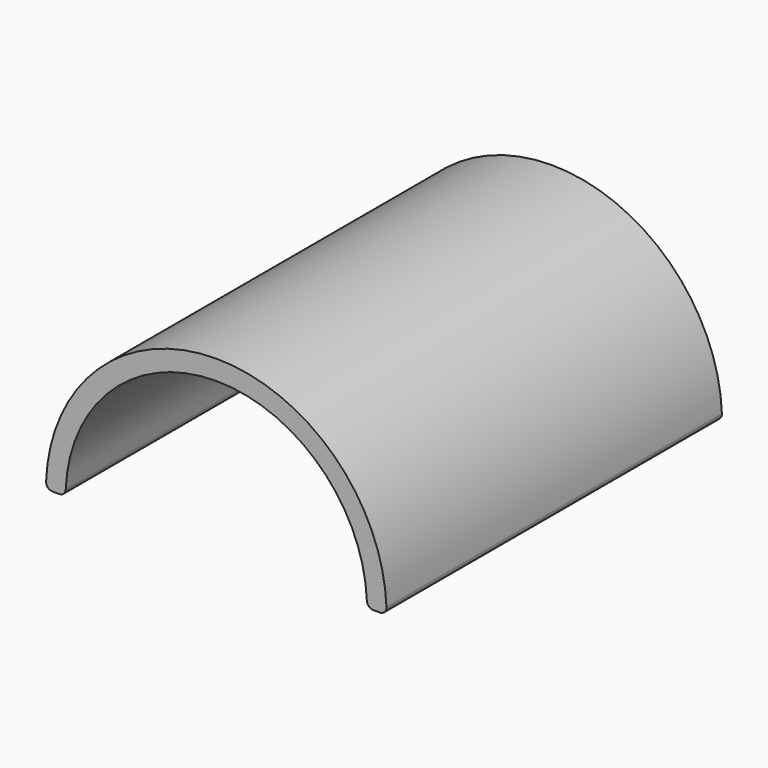
from build123d import *

# Parameters (mm, degrees)
F1_DEPTH = 50.8
F2_R     = 1.5875


with BuildPart() as f1:
    # F0 (on Front) → F1 (new body, symmetric)
    with BuildSketch(Plane.XZ):
        with BuildLine():
            ThreePointArc((-36.5125, 0), (0, 36.5125), (36.5125, 0))
            Line((36.5125, 0), (41.275, 0))
            ThreePointArc((41.275, 0), (0, 41.275), (-41.275, 0))
            Line((-41.275, 0), (-36.5125, 0))
        make_face()
    extrude(amount=F1_DEPTH, both=True)

    # F2
    f2_edges = [f1.edges().sort_by_distance(p)[0] for p in [
        (-41.275, 0, 0),
        (-36.5125, 0, 0),
        (36.5125, 0, 0),
        (41.275, 0, 0),
    ]]
    fillet(f2_edges, radius=F2_R)


solid = f1.part
